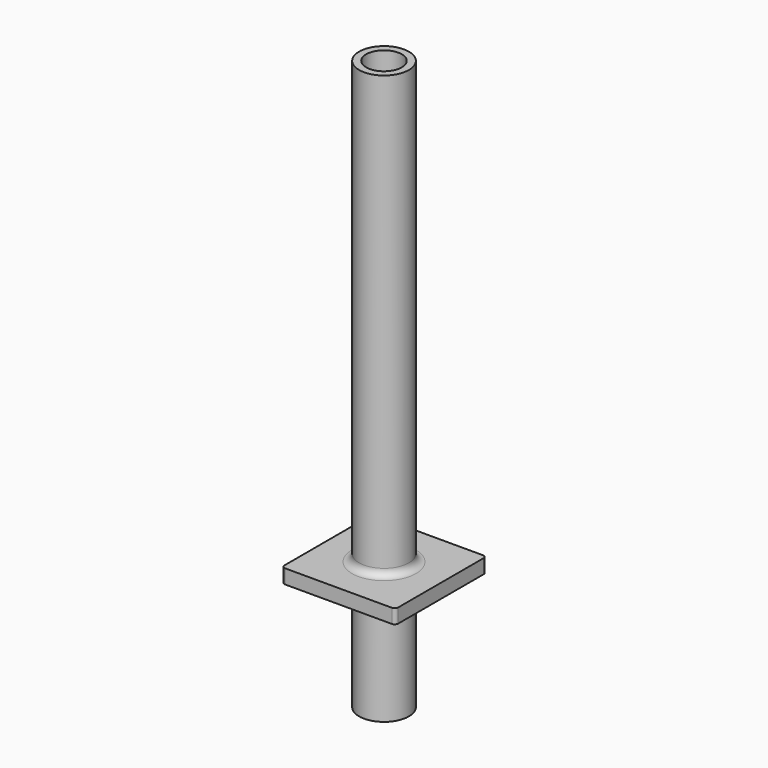
from build123d import *

# Parameters (mm, degrees)
F0_R          = 11.1125
F0_R_2        = 7.9375
F1_DEPTH      = 203.2
F1_DEPTH_BACK = 50.8
F2_R          = 7.9375
F3_DEPTH      = 6.35
F4_R          = 3.175


with BuildPart() as f1:
    # F0 (on Top) → F1 (new body, two sides)
    with BuildSketch(Plane.XY) as f1_sk:
        Circle(F0_R)
        Circle(F0_R_2, mode=Mode.SUBTRACT)
    extrude(amount=F1_DEPTH)
    extrude(f1_sk.sketch, amount=-F1_DEPTH_BACK)

    # F2 (on Top) → F3 (join)
    with BuildSketch(Plane.XY):
        with BuildLine():
            ThreePointArc((25.4, 23.8125), (24.935032, 24.935032), (23.8125, 25.4))
            Line((23.8125, 25.4), (-23.8125, 25.4))
            ThreePointArc((-23.8125, 25.4), (-24.935032, 24.935032), (-25.4, 23.8125))
            Line((-25.4, 23.8125), (-25.4, -23.8125))
            ThreePointArc((-25.4, -23.8125), (-24.935032, -24.935032), (-23.8125, -25.4))
            Line((-23.8125, -25.4), (23.8125, -25.4))
            ThreePointArc((23.8125, -25.4), (24.935032, -24.935032), (25.4, -23.8125))
            Line((25.4, -23.8125), (25.4, 23.8125))
        make_face()
        Circle(F2_R, mode=Mode.SUBTRACT)
    extrude(amount=F3_DEPTH)

    # F4
    f4_edges = [f1.edges().sort_by_distance(p)[0] for p in [
        (-11.1125, 0, 6.35),
    ]]
    fillet(f4_edges, radius=F4_R)


solid = f1.part
